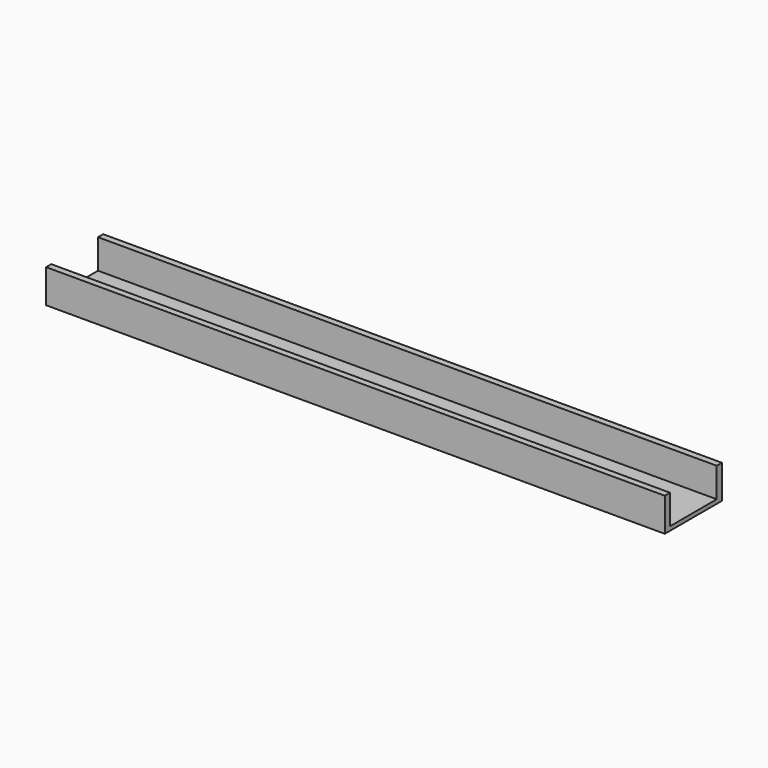
from build123d import *

# Parameters (mm, degrees)
F0_W     = 660.4
F0_H     = 76.2
F1_DEPTH = 35.814
F2_W     = 62.3316
F2_H     = 31.496
F3_DEPTH = 660.401


with BuildPart() as f1:
    # F0 (on Top) → F1 (new body)
    with BuildSketch(Plane.XY):
        with Locations((194.019066, -2.180738)):
            Rectangle(F0_W, F0_H)
    extrude(amount=F1_DEPTH)

    # F2 (on face) → F3 (cut, through all)
    with BuildSketch(Plane.YZ.offset(524.219066)):
        with Locations((-2.180738, 20.066)):
            Rectangle(F2_W, F2_H)
    extrude(amount=-F3_DEPTH, mode=Mode.SUBTRACT)


solid = f1.part
